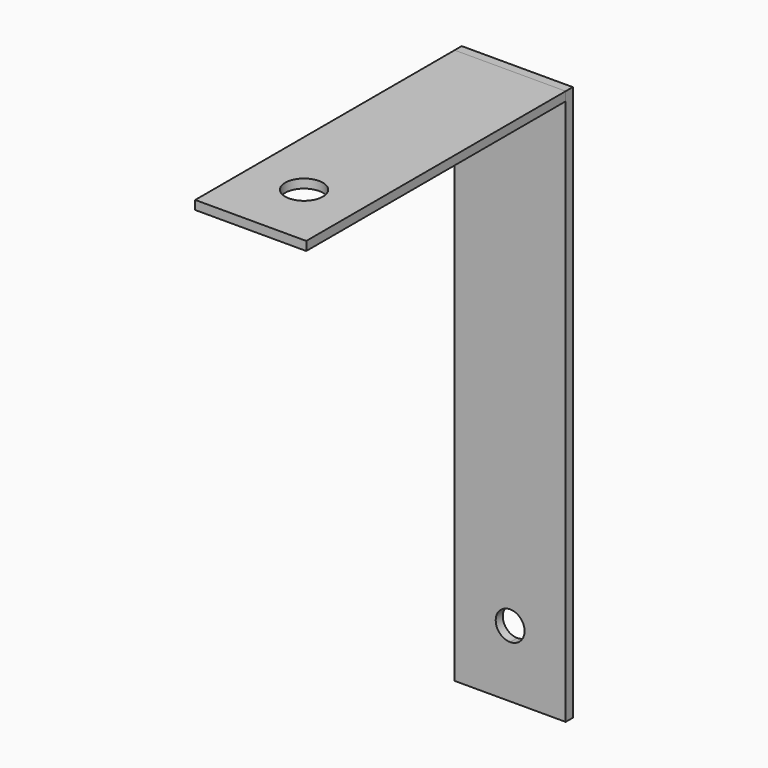
from build123d import *

# Parameters (mm, degrees)
F1_DEPTH = 2
F2_W     = 73
F2_H     = 2
F3_DEPTH = 25
F4_R     = 4.25
F5_DEPTH = 2


with BuildPart() as f1:
    # F0 (on Front) → F1 (new body)
    with BuildSketch(Plane.XZ):
        with BuildLine():
            ThreePointArc((15.75, 15), (10.201903, 17.298097), (12.5, 11.75))
            ThreePointArc((12.5, 11.75), (14.798097, 12.701903), (15.75, 15))
        make_face()
        Polygon((0, 125), (0, 0), (12.5, 0), (25, 0), (25, 125), align=None)
        with BuildLine():
            ThreePointArc((15.75, 15), (14.798097, 12.701903), (12.5, 11.75))
            ThreePointArc((12.5, 11.75), (10.201903, 17.298097), (15.75, 15))
        make_face(mode=Mode.SUBTRACT)
    extrude(amount=-F1_DEPTH)


with BuildPart() as f3:
    # F2 (on face) → F3 (new body)
    with BuildSketch(Plane(origin=(0, 0, 0), x_dir=(0, -1, 0), z_dir=(-1, 0, 0))):
        with Locations((36.5, 124)):
            Rectangle(F2_W, F2_H)
    extrude(amount=-F3_DEPTH)

    # F4 (on face) → F5 (cut)
    with BuildSketch(Plane.XY.offset(125)):
        with Locations((12.5, -58)):
            Circle(F4_R)
    extrude(amount=-F5_DEPTH, mode=Mode.SUBTRACT)


solid = Compound([f1.part, f3.part])
